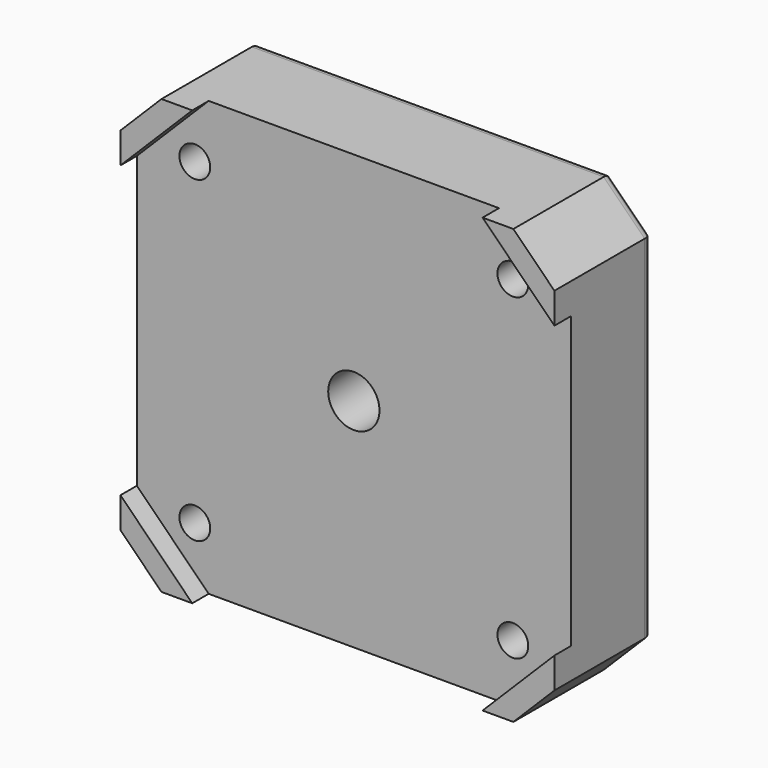
from build123d import *

# Parameters (mm, degrees)
F1_DEPTH  = 12
F3_DEPTH  = 2
F4_R      = 1.5
F5_DEPTH  = 10.001
F6_R      = 3.1
F7_DEPTH  = 3
F8_R      = 1
F9_R      = 0.5
F10_R     = 5.5
F11_DEPTH = 5
F12_R     = 2.5
F13_DEPTH = 7.001
F14_R     = 1


with BuildPart() as f1:
    # F0 (on Front) → F1 (new body)
    with BuildSketch(Plane.XZ):
        Polygon((21.15, 17.15), (17.15, 21.15), (-17.15, 21.15), (-21.15, 17.15), (-21.15, -17.15), (-17.15, -21.15), (17.15, -21.15), (21.15, -17.15), align=None)
    extrude(amount=F1_DEPTH)

    # F2 (on face) → F3 (cut)
    with BuildSketch(Plane.XZ.offset(12)):
        Polygon((21.15, 14.15), (14.15, 21.15), (-14.15, 21.15), (-21.15, 14.15), (-21.15, -14.15), (-14.15, -21.15), (14.15, -21.15), (21.15, -14.15), align=None)
    extrude(amount=-F3_DEPTH, mode=Mode.SUBTRACT)

    # F4 (on face) → F5 (cut, through all)
    with BuildSketch(Plane.XZ.offset(10)):
        with Locations((-15.5, 15.5)):
            Circle(F4_R)
        with Locations((-15.5, -15.5)):
            Circle(F4_R)
        with Locations((15.5, -15.5)):
            Circle(F4_R)
        with Locations((15.5, 15.5)):
            Circle(F4_R)
    extrude(amount=-F5_DEPTH, mode=Mode.SUBTRACT)

    # F6 (on face) → F7 (cut)
    with BuildSketch(Plane(origin=(0, 0, 0), x_dir=(-1, 0, 0), z_dir=(0, 1, 0))):
        with Locations((-15.5, 15.5)):
            Circle(F6_R)
        with Locations((-15.5, -15.5)):
            Circle(F6_R)
        with Locations((15.5, -15.5)):
            Circle(F6_R)
        with Locations((15.5, 15.5)):
            Circle(F6_R)
    extrude(amount=-F7_DEPTH, mode=Mode.SUBTRACT)

    # F8
    f8_edges = [f1.edges().sort_by_distance(p)[0] for p in [
        (0, 0, 21.15),
        (-19.15, 0, 19.15),
        (-21.15, 0, 0),
        (-19.15, 0, -19.15),
        (0, 0, -21.15),
        (19.15, 0, -19.15),
        (21.15, 0, 0),
        (19.15, 0, 19.15),
    ]]
    fillet(f8_edges, radius=F8_R)

    # F9
    f9_edges = [f1.edges().sort_by_distance(p)[0] for p in [
        (-12.4, 0, 15.5),
        (-12.4, -3, 15.5),
        (18.6, 0, 15.5),
        (18.6, -3, 15.5),
        (-12.4, 0, -15.5),
        (-12.4, -3, -15.5),
        (18.6, 0, -15.5),
        (18.6, -3, -15.5),
    ]]
    fillet(f9_edges, radius=F9_R)

    # F10 (on face) → F11 (cut)
    with BuildSketch(Plane(origin=(0, 0, 0), x_dir=(-1, 0, 0), z_dir=(0, 1, 0))):
        Circle(F10_R)
    extrude(amount=-F11_DEPTH, mode=Mode.SUBTRACT)

    # F12 (on face) → F13 (cut, through all)
    with BuildSketch(Plane(origin=(0, -5, 0), x_dir=(-1, 0, 0), z_dir=(0, 1, 0))):
        Circle(F12_R)
    extrude(amount=-F13_DEPTH, mode=Mode.SUBTRACT)

    # F14
    f14_edges = [f1.edges().sort_by_distance(p)[0] for p in [
        (5.5, 0, 0),
        (5.5, -5, 0),
    ]]
    fillet(f14_edges, radius=F14_R)


solid = f1.part
